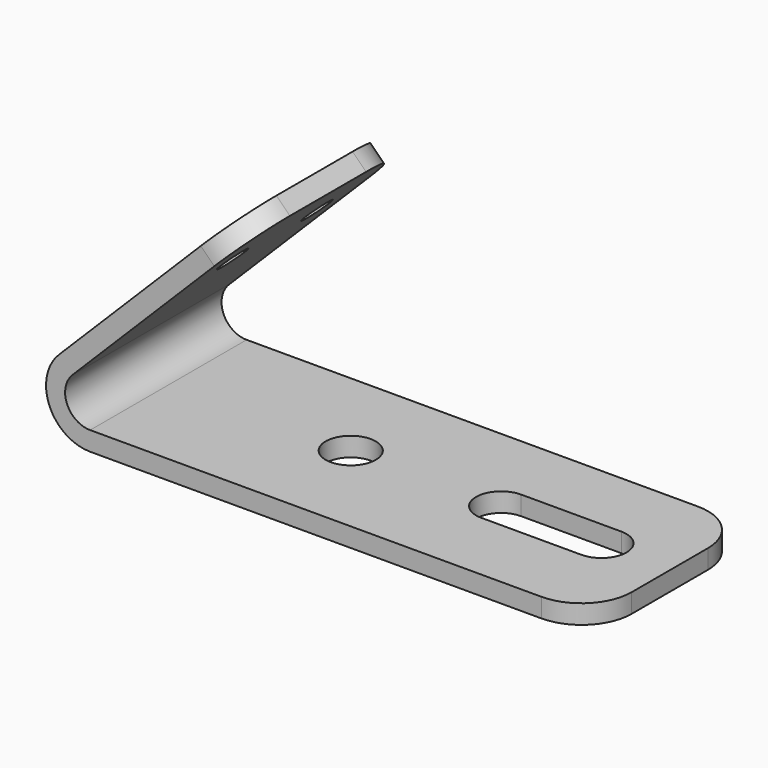
from build123d import *

# Parameters (mm, degrees)
F1_DEPTH = 19.5
F2_R     = 2.5
F3_DEPTH = 25
F4_R     = 1.5
F5_DEPTH = 12
F6_R     = 5


with BuildPart() as f1:
    # F0 (on Front) → F1 (new body)
    with BuildSketch(Plane.XZ):
        with BuildLine():
            Line((-50, 0), (0, 0))
            Line((0, 0), (0, 1.9))
            Line((0, 1.9), (-50, 1.9))
            ThreePointArc((-50, 1.9), (-52.309699, 3.443291), (-51.767767, 6.167767))
            Line((-51.767767, 6.167767), (-34.090097, 23.845436))
            Line((-34.090097, 23.845436), (-35.4336, 25.188939))
            Line((-35.4336, 25.188939), (-53.11127, 7.51127))
            ThreePointArc((-53.11127, 7.51127), (-54.06507, 2.716193), (-50, 0))
        make_face()
    extrude(amount=F1_DEPTH)

    # F2 (on face) → F3 (cut)
    with BuildSketch(Plane.XY.offset(1.9)):
        with BuildLine():
            ThreePointArc((-17, -12.025), (-15.232233, -11.292767), (-14.5, -9.525))
            ThreePointArc((-14.5, -9.525), (-15.232233, -7.757233), (-17, -7.025))
            ThreePointArc((-17, -7.025), (-19.5, -9.525), (-17, -12.025))
        make_face()
        with BuildLine():
            ThreePointArc((-17, -7.025), (-15.232233, -7.757233), (-14.5, -9.525))
            ThreePointArc((-14.5, -9.525), (-15.232233, -11.292767), (-17, -12.025))
            Line((-17, -12.025), (-7, -12.025))
            ThreePointArc((-7, -12.025), (-9.5, -9.525), (-7, -7.025))
            Line((-7, -7.025), (-17, -7.025))
        make_face()
        with BuildLine():
            ThreePointArc((-4.5, -9.525), (-5.232233, -7.757233), (-7, -7.025))
            ThreePointArc((-7, -7.025), (-9.5, -9.525), (-7, -12.025))
            ThreePointArc((-7, -12.025), (-5.232233, -11.292767), (-4.5, -9.525))
        make_face()
        with Locations((-32, -9.525)):
            Circle(F2_R)
    extrude(amount=-F3_DEPTH, mode=Mode.SUBTRACT)

    # F4 (on face) → F5 (cut)
    with BuildSketch(Plane(origin=(-30.31127, 0, 30.31127), x_dir=(0, -1, 0), z_dir=(-0.707107, 0, 0.707107))):
        with Locations((4.5, -14.744069)):
            Circle(F4_R)
        with Locations((15, -14.744069)):
            Circle(F4_R)
    extrude(amount=-F5_DEPTH, mode=Mode.SUBTRACT)

    # F6
    f6_edges = [f1.edges().sort_by_distance(p)[0] for p in [
        (-34.761849, 0, 24.517188),
        (-34.761849, -19.5, 24.517188),
        (0, -19.5, 0.95),
        (0, 0, 0.95),
    ]]
    fillet(f6_edges, radius=F6_R)


solid = f1.part
